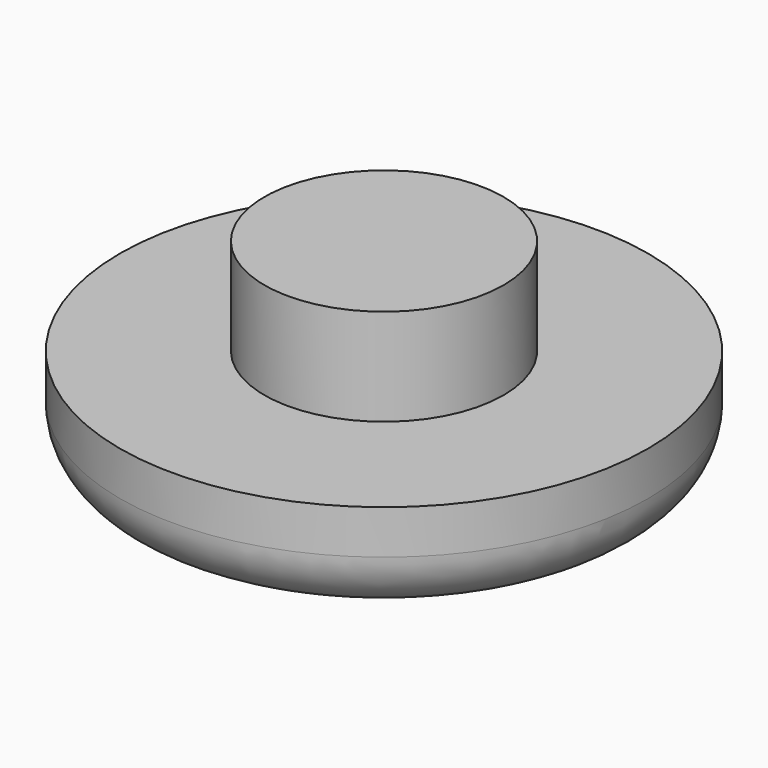
from build123d import *

# Parameters (mm, degrees)
F0_R     = 4.075
F1_DEPTH = 6.8
F0_R_2   = 9
F2_DEPTH = 3.5
F3_R     = 2
F4_D     = 12
F4_DEPTH = 1
F4_TIP   = 3.6051637142


with BuildPart() as f1:
    # F0 (on Top) → F1 (new body)
    with BuildSketch(Plane.XY):
        Circle(F0_R)
    extrude(amount=F1_DEPTH)

    # F0 (on Top) → F2 (join)
    with BuildSketch(Plane.XY):
        Circle(F0_R_2)
        Circle(F0_R, mode=Mode.SUBTRACT)
    extrude(amount=F2_DEPTH)

    # F3
    f3_edges = [f1.edges().sort_by_distance(p)[0] for p in [
        (-9, 0, 0),
    ]]
    fillet(f3_edges, radius=F3_R)

    # F4
    with Locations(Plane(origin=(0, 0, 0), x_dir=(1, 0, 0), z_dir=(0, 0, -1))):
        with Locations((0, 0)):
            Hole(F4_D / 2, depth=F4_DEPTH)
            with Locations((0, 0, -(F4_DEPTH + F4_TIP / 2))):  # 118° drill point
                Cone(0, F4_D / 2, F4_TIP, mode=Mode.SUBTRACT)


solid = f1.part
